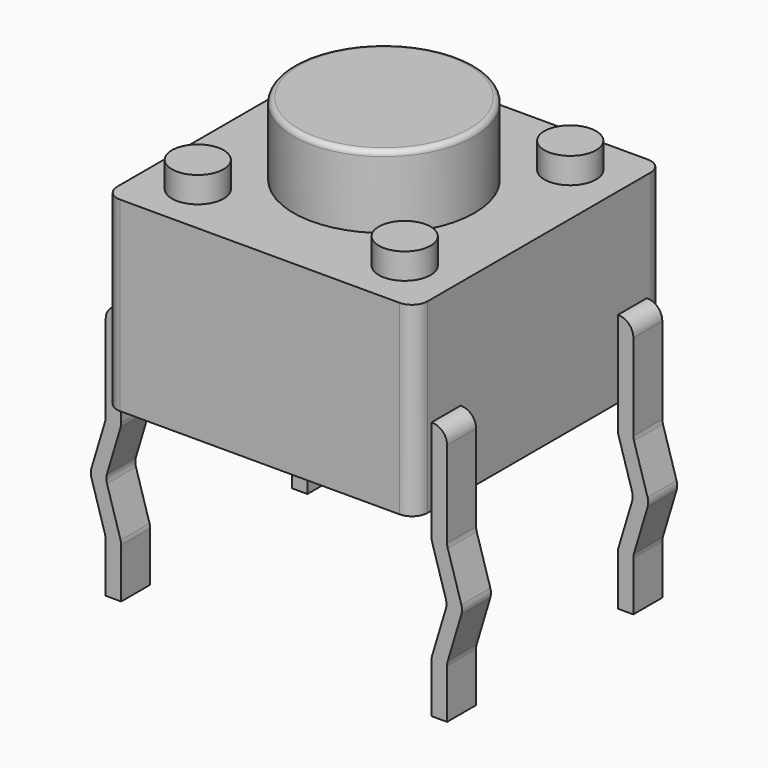
from build123d import *

# Parameters (mm, degrees)
SKETCH001_W  = 6
SKETCH001_H  = 6
PAD001_DEPTH = 0.1
FILLET001_R  = 0.3
PAD008_DEPTH = 0.7
FILLET003_R  = 0.29
PAD009_DEPTH = 0.7
FILLET004_R  = 0.29
PAD010_DEPTH = 0.7
FILLET005_R  = 0.29
SKETCH_W     = 6
SKETCH_H     = 6
PAD_DEPTH    = 3.5
FILLET_R     = 0.3
SKETCH004_R  = 0.5
PAD003_DEPTH = 0.6
SKETCH003_R  = 0.5
PAD004_DEPTH = 0.6
SKETCH005_R  = 0.5
PAD002_DEPTH = 0.6
SKETCH002_R  = 0.5
PAD005_DEPTH = 0.6
SKETCH006_R  = 1.75
PAD006_DEPTH = 1.5
FILLET006_R  = 0.1
PAD007_DEPTH = 0.7
FILLET002_R  = 0.29


with BuildPart() as fillet001:
    # Sketch001 → Pad001 (new body)
    with BuildSketch(Plane.XY.offset(3.5)):
        with Locations((3.15, -2.25)):
            Rectangle(SKETCH001_W, SKETCH001_H)
    extrude(amount=PAD001_DEPTH)

    # Fillet001
    fillet001_edges = [fillet001.edges().sort_by_distance(p)[0] for p in [
        (6.15, -5.25, 3.55),
        (0.15, -5.25, 3.55),
        (6.15, 0.75, 3.55),
        (0.15, 0.75, 3.55),
    ]]
    fillet(fillet001_edges, radius=FILLET001_R)


with BuildPart() as fillet003:
    # Sketch008 → Pad008 (new body)
    with BuildSketch(Plane.XZ.offset(0.35)):
        Polygon((-0.15, 1.5), (0.15, 1.5), (0.15, -0.5), (-0.15, -1.5), (0.15, -2.5), (0.15, -3.5), (-0.15, -3.5), (-0.15, -2.5), (-0.45, -1.5), (-0.15, -0.5), align=None)
    extrude(amount=-PAD008_DEPTH)

    # Fillet003
    fillet003_edges = [fillet003.edges().sort_by_distance(p)[0] for p in [
        (-0.15, 0, -2.5),
        (-0.15, 0, -0.5),
        (-0.45, 0, -1.5),
        (-0.15, 0, 1.5),
        (0.15, 0, -0.5),
        (-0.15, 0, -1.5),
        (0.15, 0, -2.5),
    ]]
    fillet(fillet003_edges, radius=FILLET003_R)


with BuildPart() as fillet004:
    # Sketch009 → Pad009 (new body)
    with BuildSketch(Plane.XZ.offset(4.85)):
        Polygon((6.45, 1.5), (6.15, 1.5), (6.15, -0.5), (6.45, -1.5), (6.15, -2.5), (6.15, -3.5), (6.45, -3.5), (6.45, -2.5), (6.75, -1.5), (6.45, -0.5), align=None)
    extrude(amount=-PAD009_DEPTH)

    # Fillet004
    fillet004_edges = [fillet004.edges().sort_by_distance(p)[0] for p in [
        (6.45, -4.5, -2.5),
        (6.45, -4.5, -0.5),
        (6.75, -4.5, -1.5),
        (6.45, -4.5, 1.5),
        (6.15, -4.5, -0.5),
        (6.45, -4.5, -1.5),
        (6.15, -4.5, -2.5),
    ]]
    fillet(fillet004_edges, radius=FILLET004_R)


with BuildPart() as fillet005:
    # Sketch010 → Pad010 (new body)
    with BuildSketch(Plane.XZ.offset(0.35)):
        Polygon((6.45, 1.5), (6.15, 1.5), (6.15, -0.5), (6.45, -1.5), (6.15, -2.5), (6.15, -3.5), (6.45, -3.5), (6.45, -2.5), (6.75, -1.5), (6.45, -0.5), align=None)
    extrude(amount=-PAD010_DEPTH)

    # Fillet005
    fillet005_edges = [fillet005.edges().sort_by_distance(p)[0] for p in [
        (6.45, 0, -2.5),
        (6.45, 0, -0.5),
        (6.75, 0, -1.5),
        (6.45, 0, 1.5),
        (6.15, 0, -0.5),
        (6.45, 0, -1.5),
        (6.15, 0, -2.5),
    ]]
    fillet(fillet005_edges, radius=FILLET005_R)


with BuildPart() as fillet_body:
    # Sketch → Pad (new body)
    with BuildSketch(Plane.XY):
        with Locations((3.15, -2.25)):
            Rectangle(SKETCH_W, SKETCH_H)
    extrude(amount=PAD_DEPTH)

    # Fillet
    fillet_edges = [fillet_body.edges().sort_by_distance(p)[0] for p in [
        (6.15, 0.75, 1.75),
        (6.15, -5.25, 1.75),
        (0.15, -5.25, 1.75),
        (0.15, 0.75, 1.75),
    ]]
    fillet(fillet_edges, radius=FILLET_R)


with BuildPart() as pad003:
    # Pad003 base: copy of Fillet body
    add(fillet_body.part)

    # Sketch004 → Pad003 (new body)
    with BuildSketch(Plane.XY.offset(3.5)):
        with Locations((5.15, -0.25)):
            Circle(SKETCH004_R)
    extrude(amount=PAD003_DEPTH)


with BuildPart() as pad004:
    # Pad004 base: copy of Fillet body
    add(fillet_body.part)

    # Sketch003 → Pad004 (new body)
    with BuildSketch(Plane.XY.offset(3.5)):
        with Locations((5.15, -4.25)):
            Circle(SKETCH003_R)
    extrude(amount=PAD004_DEPTH)


with BuildPart() as pad002:
    # Pad002 base: copy of Fillet body
    add(fillet_body.part)

    # Sketch005 → Pad002 (new body)
    with BuildSketch(Plane.XY.offset(3.5)):
        with Locations((1.15, -0.25)):
            Circle(SKETCH005_R)
    extrude(amount=PAD002_DEPTH)


with BuildPart() as pad005:
    # Pad005 base: copy of Fillet body
    add(fillet_body.part)

    # Sketch002 → Pad005 (new body)
    with BuildSketch(Plane.XY.offset(3.5)):
        with Locations((1.15, -4.25)):
            Circle(SKETCH002_R)
    extrude(amount=PAD005_DEPTH)


with BuildPart() as fillet006:
    # Pad006 base: copy of Fillet body
    add(fillet_body.part)

    # Sketch006 → Pad006 (new body)
    with BuildSketch(Plane.XY.offset(3.5)):
        with Locations((3.15, -2.25)):
            Circle(SKETCH006_R)
    extrude(amount=PAD006_DEPTH)

    # Fillet006
    fillet006_edges = [fillet006.edges().sort_by_distance(p)[0] for p in [
        (1.4, -2.25, 5),
    ]]
    fillet(fillet006_edges, radius=FILLET006_R)


with BuildPart() as obj1:
    # Sketch007 → Pad007 (new body)
    with BuildSketch(Plane.XZ.offset(4.85)):
        Polygon((-0.15, 1.5), (0.15, 1.5), (0.15, -0.5), (-0.15, -1.5), (0.15, -2.5), (0.15, -3.5), (-0.15, -3.5), (-0.15, -2.5), (-0.45, -1.5), (-0.15, -0.5), align=None)
    extrude(amount=-PAD007_DEPTH)

    # Fillet002
    fillet002_edges = [obj1.edges().sort_by_distance(p)[0] for p in [
        (-0.15, -4.5, -2.5),
        (-0.15, -4.5, -0.5),
        (-0.45, -4.5, -1.5),
        (-0.15, -4.5, 1.5),
        (0.15, -4.5, -0.5),
        (-0.15, -4.5, -1.5),
        (0.15, -4.5, -2.5),
    ]]
    fillet(fillet002_edges, radius=FILLET002_R)

    add(fillet001.part)
    add(fillet003.part)
    add(fillet004.part)
    add(fillet005.part)
    add(pad003.part)
    add(pad004.part)
    add(pad002.part)
    add(pad005.part)
    add(fillet006.part)


solid = obj1.part
